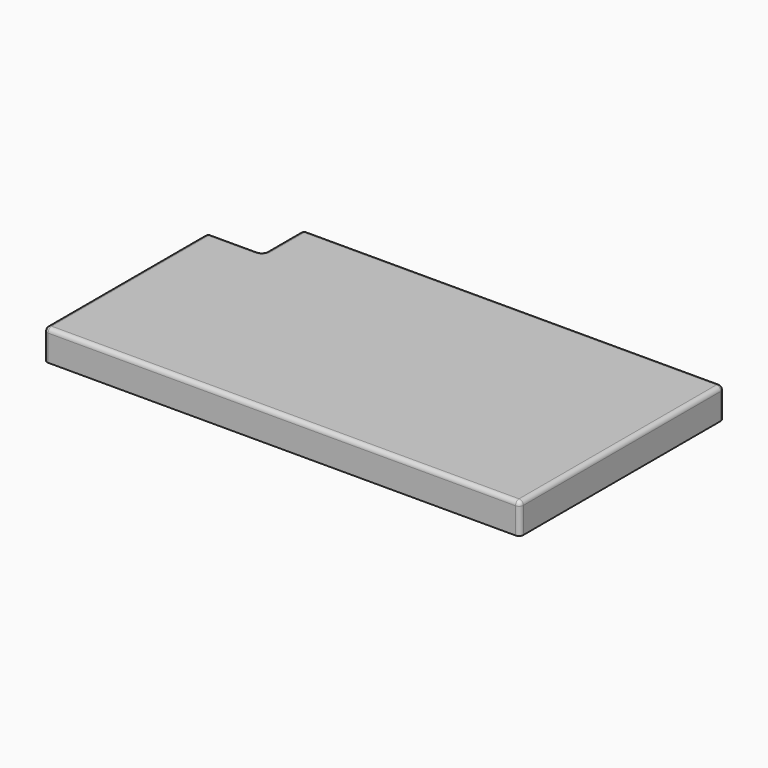
from build123d import *

# Parameters (mm, degrees)
PAD001_DEPTH = 2.1
THICKNESS_T  = -0.5
FILLET_R     = 0.3
FILLET001_R  = 0.1


with BuildPart() as part:
    # Sketch001 → Pad001 (new body)
    with BuildSketch(Plane.XY):
        Polygon((5, 18.8), (34, 18.8), (34, 1.2), (1.2, 1.2), (1.2, 15.3), (5, 15.3), align=None)
    extrude(amount=PAD001_DEPTH)

    # Thickness
    thickness_openings = [part.faces().sort_by_distance(p)[0] for p in [
        (17.941945, 9.833744, 0),
    ]]
    offset(amount=THICKNESS_T, openings=thickness_openings, kind=Kind.INTERSECTION)

    # Fillet
    fillet_edges = [part.edges().sort_by_distance(p)[0] for p in [
        (1.2, 1.2, 1.05),
        (34, 1.2, 1.05),
        (34, 18.8, 1.05),
        (5, 18.8, 1.05),
        (5, 15.3, 1.05),
        (1.2, 15.3, 1.05),
        (1.2, 8.25, 2.1),
        (17.6, 1.2, 2.1),
        (34, 10, 2.1),
        (19.5, 18.8, 2.1),
        (5, 17.05, 2.1),
        (3.1, 15.3, 2.1),
    ]]
    fillet(fillet_edges, radius=FILLET_R)

    # Fillet001
    fillet001_edges = [part.edges().sort_by_distance(p)[0] for p in [
        (1.7, 1.7, 0.8),
        (33.5, 1.7, 0.8),
        (33.5, 18.3, 0.8),
        (5.5, 18.3, 0.8),
        (5.5, 14.8, 0.8),
        (1.7, 14.8, 0.8),
        (1.7, 8.25, 1.6),
        (3.6, 14.8, 1.6),
        (5.5, 16.55, 1.6),
        (19.5, 18.3, 1.6),
        (17.6, 1.7, 1.6),
        (33.5, 10, 1.6),
    ]]
    fillet(fillet001_edges, radius=FILLET001_R)


solid = part.part
